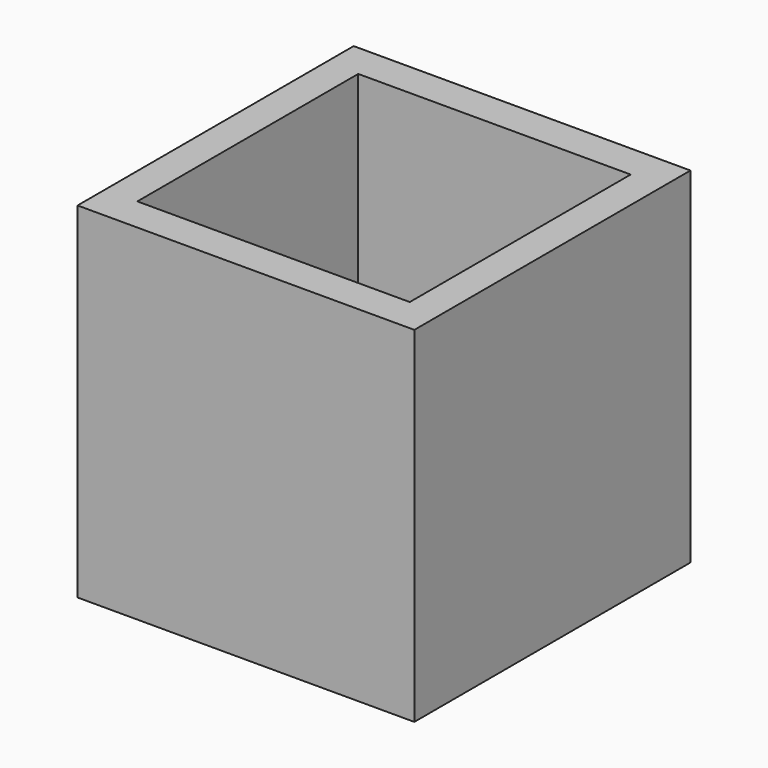
from build123d import *

# Parameters (mm, degrees)
F0_W     = 9.757576
F0_H     = 10
F1_DEPTH = 20
F3_DEPTH = 18


with BuildPart() as f1:
    # F0 (on Top) → F1 (new body)
    with BuildSketch(Plane.XY):
        with Locations((4.878788, 5)):
            Rectangle(F0_W, F0_H)
        with Locations((4.878788, -5)):
            Rectangle(F0_W, F0_H)
        with Locations((-4.878788, 5)):
            Rectangle(F0_W, F0_H)
        with Locations((-4.878788, -5)):
            Rectangle(F0_W, F0_H)
    extrude(amount=F1_DEPTH)

    # F2 (on face) → F3 (cut)
    with BuildSketch(Plane.XY.offset(20)):
        Polygon((7.893144, 8), (0, 8), (-7.893144, 8), (-7.893144, 0), (-7.893144, -8), (7.893144, -8), (7.893144, 0), align=None)
    extrude(amount=-F3_DEPTH, mode=Mode.SUBTRACT)


solid = f1.part
